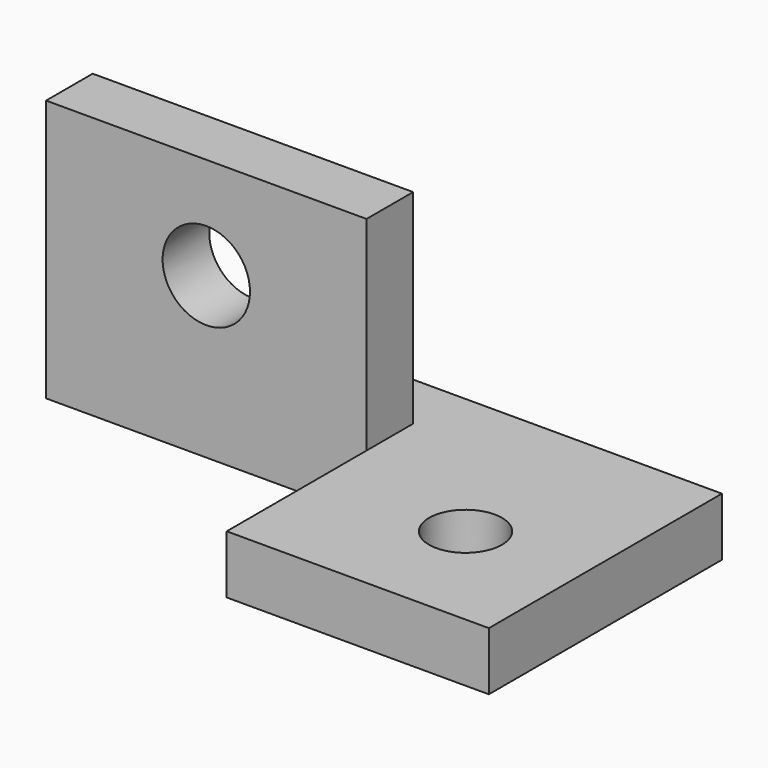
from build123d import *

# Parameters (mm, degrees)
F0_R     = 3.9751
F1_DEPTH = 3.175
F2_W     = 34.925
F2_H     = 22.225
F2_R     = 4.7625
F3_DEPTH = 6.35


with BuildPart() as f1:
    # F0 (on Top) → F1 (new body, symmetric)
    with BuildSketch(Plane.XY):
        Polygon((0, 19.05), (0, 0), (28.575, 0), (28.575, 31.75), (-34.925, 31.75), (-34.925, 19.05), align=None)
        with Locations((15.875, 12.7)):
            Circle(F0_R, mode=Mode.SUBTRACT)
    extrude(amount=F1_DEPTH, both=True)

    # F2 (on face) → F3 (join)
    with BuildSketch(Plane.XZ.offset(-19.05)):
        with Locations((-17.4625, 14.2875)):
            Rectangle(F2_W, F2_H)
        with Locations((-17.4625, 14.2875)):
            Circle(F2_R, mode=Mode.SUBTRACT)
    extrude(amount=-F3_DEPTH)


solid = f1.part
